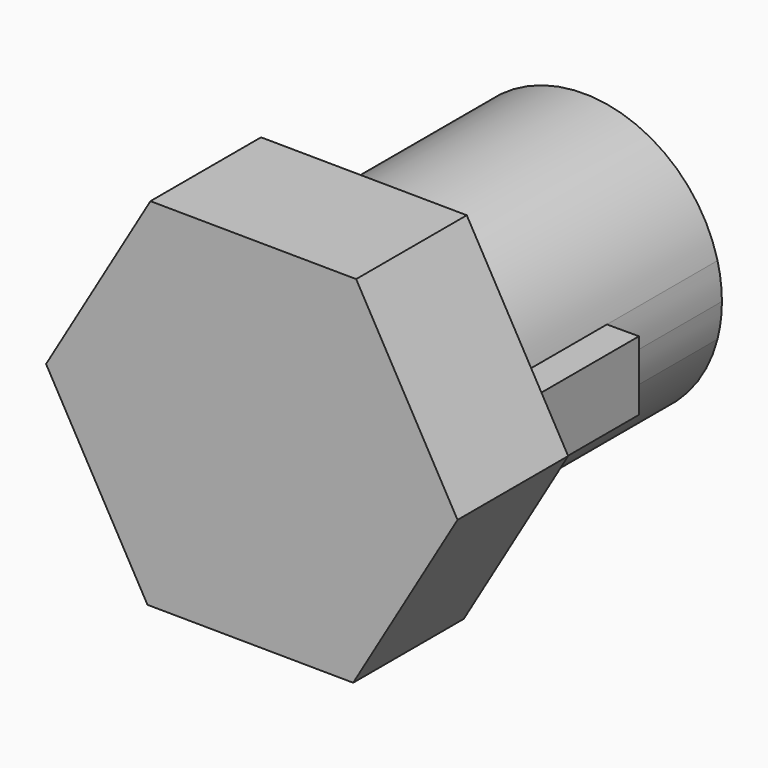
from build123d import *

# Parameters (mm, degrees)
F1_DEPTH = 30
F2_DEPTH = 10
F3_DEPTH = 20


with BuildPart() as f1:
    # F0 (on Front) → F1 (new body)
    with BuildSketch(Plane.XZ):
        with BuildLine():
            ThreePointArc((9.682458, -2.5), (9.920297, -1.260043), (10, 0))
            ThreePointArc((10, 0), (9.920297, 1.260043), (9.682458, 2.5))
            ThreePointArc((9.682458, 2.5), (-10, 0), (9.682458, -2.5))
        make_face()
    extrude(amount=-F1_DEPTH)

    # F0 (on Front) → F2 (join)
    with BuildSketch(Plane.XZ):
        Polygon((-7.546579, -12.82301), (7.331762, -12.947034), (14.878342, -0.124024), (7.546579, 12.82301), (-7.331762, 12.947034), (-14.878342, 0.124024), align=None)
        with BuildLine():
            ThreePointArc((9.682458, -2.5), (-10, 0), (9.682458, 2.5))
            Line((9.682458, 2.5), (12, 2.5))
            Line((12, 2.5), (12, -2.5))
            Line((12, -2.5), (9.682458, -2.5))
        make_face(mode=Mode.SUBTRACT)
        Polygon((-7.546579, -12.82301), (7.331762, -12.947034), (14.878342, -0.124024), (7.546579, 12.82301), (-7.331762, 12.947034), (-14.878342, 0.124024), align=None)
        with BuildLine():
            ThreePointArc((9.682458, -2.5), (-10, 0), (9.682458, 2.5))
            Line((9.682458, 2.5), (12, 2.5))
            Line((12, 2.5), (12, -2.5))
            Line((12, -2.5), (9.682458, -2.5))
        make_face(mode=Mode.SUBTRACT)
    extrude(amount=-F2_DEPTH)

    # F0 (on Front) → F3 (join)
    with BuildSketch(Plane.XZ):
        with BuildLine():
            ThreePointArc((9.682458, 2.5), (9.920297, 1.260043), (10, 0))
            ThreePointArc((10, 0), (9.920297, -1.260043), (9.682458, -2.5))
            Line((9.682458, -2.5), (12, -2.5))
            Line((12, -2.5), (12, 2.5))
            Line((12, 2.5), (9.682458, 2.5))
        make_face()
    extrude(amount=-F3_DEPTH)


solid = f1.part
